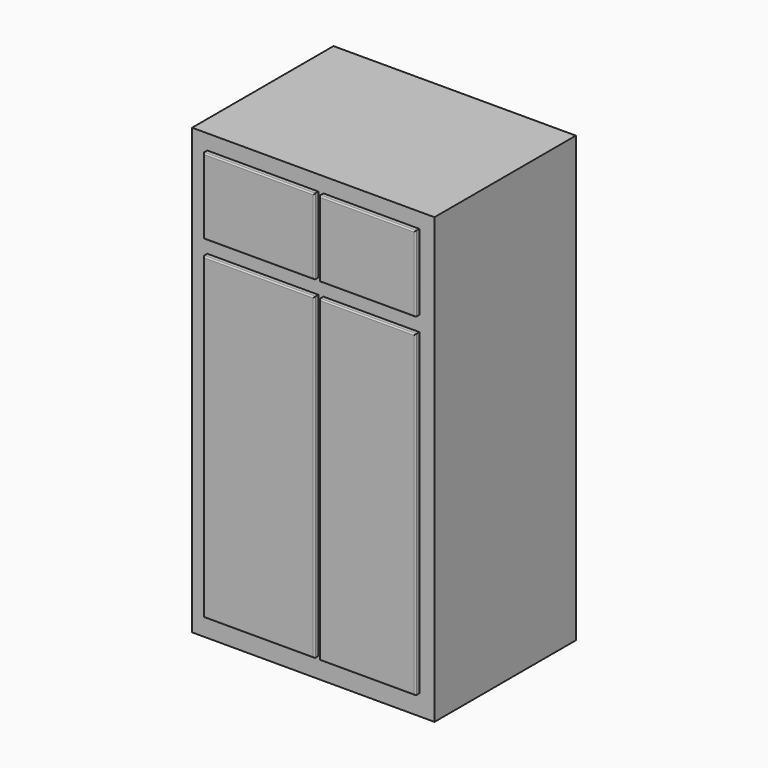
from build123d import *

# Parameters (mm, degrees)
F0_W     = 1219.2
F0_H     = 889
F1_DEPTH = 2235.2
F2_W     = 558.8
F2_H     = 1600.2
F2_W_2   = 482.6
F2_H_2   = 381
F3_DEPTH = 25.4
F4_R     = 6.35


with BuildPart() as f1:
    # F0 (on Top) → F1 (new body)
    with BuildSketch(Plane.XY):
        with Locations((452.116386, 444.5)):
            Rectangle(F0_W, F0_H)
    extrude(amount=F1_DEPTH)

    # F2 (on face) → F3 (join)
    with BuildSketch(Plane.XZ):
        with Locations((198.116386, 901.7)):
            Rectangle(F2_W, F2_H)
        with Locations((744.216386, 901.7)):
            Rectangle(F2_W_2, F2_H)
        with Locations((198.116386, 1968.5)):
            Rectangle(F2_W, F2_H_2)
        with Locations((744.216386, 1968.5)):
            Rectangle(F2_W_2, F2_H_2)
    extrude(amount=F3_DEPTH)

    # F4
    f4_edges = [f1.edges().sort_by_distance(p)[0] for p in [
        (502.916386, -25.4, 1968.5),
        (744.216386, -25.4, 1778),
        (985.516386, -25.4, 1968.5),
        (744.216386, -25.4, 2159),
        (477.516386, -25.4, 1968.5),
        (198.116386, -25.4, 2159),
        (-81.283614, -25.4, 1968.5),
        (198.116386, -25.4, 1778),
        (477.516386, -25.4, 901.7),
        (198.116386, -25.4, 1701.8),
        (-81.283614, -25.4, 901.7),
        (198.116386, -25.4, 101.6),
        (985.516386, -25.4, 901.7),
        (744.216386, -25.4, 1701.8),
        (502.916386, -25.4, 901.7),
        (744.216386, -25.4, 101.6),
    ]]
    fillet(f4_edges, radius=F4_R)


solid = f1.part
